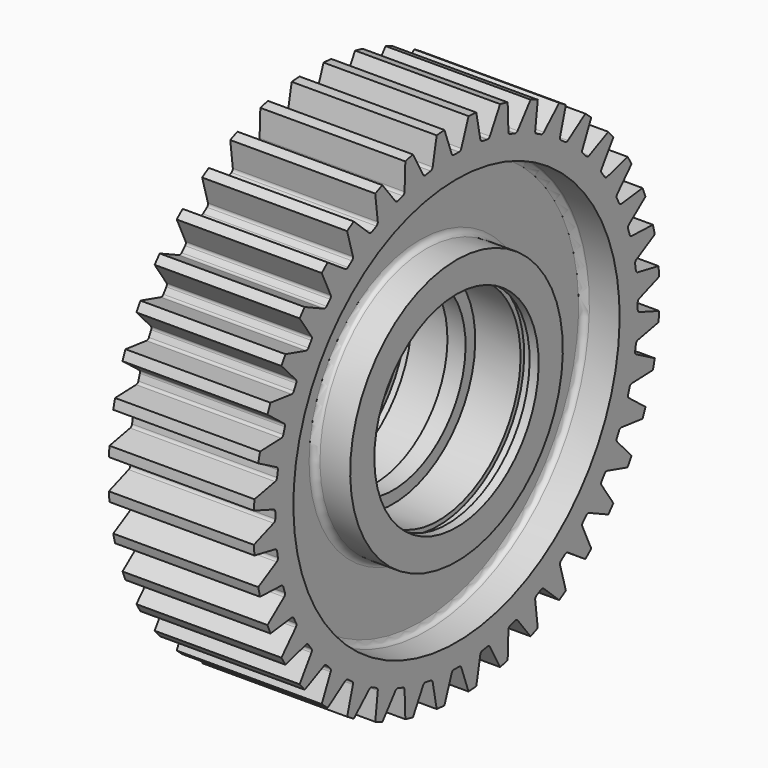
from build123d import *

# Parameters (mm, degrees)
F3_DEPTH = 24.4
F4_COUNT = 40
F5_SIZE  = 1


with BuildPart() as f1:
    # F0 (on Front) → F1 (revolve)
    with BuildSketch(Plane.XZ):
        with BuildLine():
            Line((24, 84), (0, 84))
            Line((0, 84), (-24, 84))
            Line((-24, 84), (-24, 67.5))
            Line((-24, 67.5), (-14, 67.5))
            ThreePointArc((-14, 67.5), (-12.5857864376, 66.9142135624), (-12, 65.5))
            Line((-12, 65.5), (-12, 46))
            ThreePointArc((-12, 46), (-12.5857864376, 44.5857864376), (-14, 44))
            Line((-14, 44), (-24, 44))
            Line((-24, 44), (-24, 34))
            Line((-24, 34), (-21, 34))
            Line((-21, 34), (-21, 35.5))
            Line((-21, 35.5), (-18, 35.5))
            Line((-18, 35.5), (-18, 34))
            Line((-18, 34), (-3, 34))
            Line((-3, 34), (-3, 30))
            Line((-3, 30), (0, 30))
            Line((0, 30), (3, 30))
            Line((3, 30), (3, 34))
            Line((3, 34), (18, 34))
            Line((18, 34), (18, 35.5))
            Line((18, 35.5), (21, 35.5))
            Line((21, 35.5), (21, 34))
            Line((21, 34), (24, 34))
            Line((24, 34), (24, 44))
            Line((24, 44), (14, 44))
            ThreePointArc((14, 44), (12.5857864376, 44.5857864376), (12, 46))
            Line((12, 46), (12, 65.5))
            ThreePointArc((12, 65.5), (12.5857864376, 66.9142135624), (14, 67.5))
            Line((14, 67.5), (24, 67.5))
            Line((24, 67.5), (24, 84))
        make_face()
    revolve(axis=Axis((-12, 0, 0), (-1, 0, 0)))

    # F2 (on Right) → F3 (cut, symmetric)
    with BuildSketch(Plane.YZ):
        with BuildLine():
            ThreePointArc((-1.0412874443, 74.9927711213), (0, 75), (1.0412874443, 74.9927711213))
            ThreePointArc((1.0412874443, 74.9927711213), (1.6230472701, 75.1695606152), (1.9948638977, 75.650654593))
            Line((1.9948638977, 75.650654593), (4.98, 83.8522486282))
            ThreePointArc((4.98, 83.8522486282), (0, 84), (-4.98, 83.8522486282))
            Line((-4.98, 83.8522486282), (-1.9948638977, 75.650654593))
            ThreePointArc((-1.9948638977, 75.650654593), (-1.6230472701, 75.1695606152), (-1.0412874443, 74.9927711213))
        make_face()
    f3 = extrude(amount=F3_DEPTH, both=True, mode=Mode.SUBTRACT)

    # F4: F3 ×40 about axis
    f4_axis = Axis((24, 0, 0), (-1, 0, 0))
    for i in range(1, F4_COUNT):
        add(f3.rotate(f4_axis, i * 360 / F4_COUNT), mode=Mode.SUBTRACT)

    # F5
    f5_edges = [f1.edges().sort_by_distance(p)[0] for p in [
        (-24, 0, -67.5),
        (-24, 0, -44),
        (-24, 0, -34),
        (-14, 0, -44),
    ]]
    chamfer(f5_edges, length=F5_SIZE)


solid = f1.part
